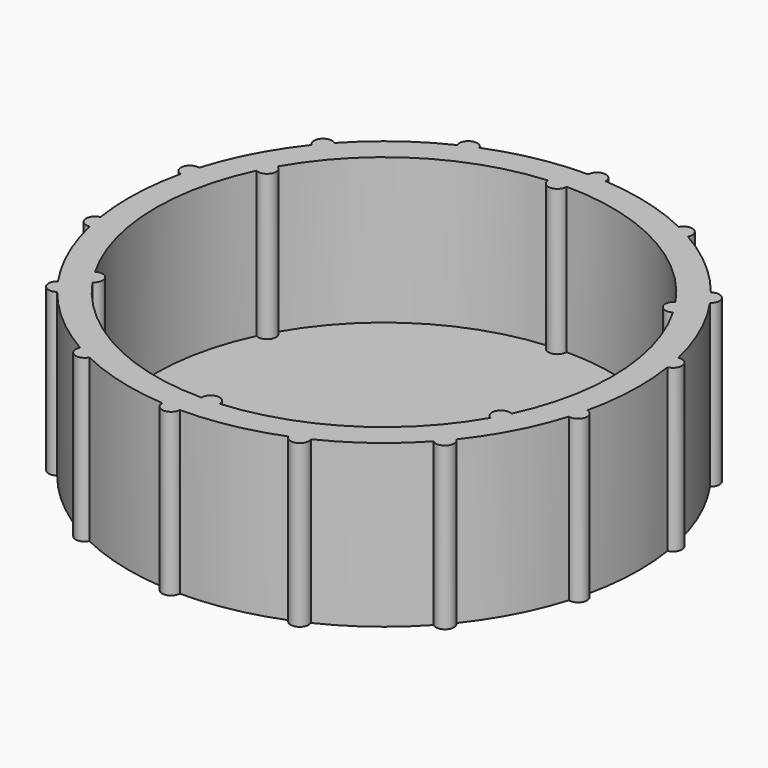
from build123d import *

# Parameters (mm, degrees)
F1_DEPTH = 0.9
F2_DEPTH = 9


with BuildPart() as f1:
    # F0 (on Top) → F1 (new body)
    with BuildSketch(Plane.XY):
        with BuildLine():
            ThreePointArc((0, 12.7), (-0.479927, 12.180703), (-0.999225, 12.66063))
            ThreePointArc((-0.999225, 12.66063), (-6.77809, 10.739995), (-10.998523, 6.35))
            ThreePointArc((-10.998523, 6.35), (-10.788762, 5.674722), (-11.464039, 5.464961))
            ThreePointArc((-11.464039, 5.464961), (-12.690154, -0.5), (-10.998523, -6.35))
            ThreePointArc((-10.998523, -6.35), (-10.308834, -6.505981), (-10.464815, -7.195669))
            ThreePointArc((-10.464815, -7.195669), (-5.912064, -11.239995), (0, -12.7))
            ThreePointArc((0, -12.7), (0.479927, -12.180703), (0.999225, -12.66063))
            ThreePointArc((0.999225, -12.66063), (6.77809, -10.739995), (10.998523, -6.35))
            ThreePointArc((10.998523, -6.35), (10.788762, -5.674722), (11.464039, -5.464961))
            ThreePointArc((11.464039, -5.464961), (12.690154, 0.5), (10.998523, 6.35))
            ThreePointArc((10.998523, 6.35), (10.308834, 6.505981), (10.464815, 7.195669))
            ThreePointArc((10.464815, 7.195669), (5.912064, 11.239995), (0, 12.7))
        make_face()
    extrude(amount=F1_DEPTH)

    # F0 (on Top) → F2 (join)
    with BuildSketch(Plane.XY):
        with BuildLine():
            ThreePointArc((0.99938, 14.164789), (0.517296, 14.682084), (0, 14.2))
            ThreePointArc((0, 14.2), (-2.670374, 13.946652), (-5.245461, 13.195648))
            ThreePointArc((-5.245461, 13.195648), (-5.90425, 13.452547), (-6.161149, 12.793758))
            ThreePointArc((-6.161149, 12.793758), (-8.457149, 11.406867), (-10.451375, 9.612948))
            ThreePointArc((-10.451375, 9.612948), (-11.156387, 9.558568), (-11.102007, 8.853555))
            ThreePointArc((-11.102007, 8.853555), (-12.568883, 6.607813), (-13.587265, 4.126285))
            ThreePointArc((-13.587265, 4.126285), (-14.198865, 3.771397), (-13.843976, 3.159797))
            ThreePointArc((-13.843976, 3.159797), (-14.191194, 0.5), (-14.032031, -2.177639))
            ThreePointArc((-14.032031, -2.177639), (-14.429083, -2.762745), (-13.843976, -3.159797))
            ThreePointArc((-13.843976, -3.159797), (-13.002766, -5.706844), (-11.697581, -8.050255))
            ThreePointArc((-11.697581, -8.050255), (-11.801444, -8.749692), (-11.102007, -8.853555))
            ThreePointArc((-11.102007, -8.853555), (-9.238981, -10.783378), (-7.046282, -12.328419))
            ThreePointArc((-7.046282, -12.328419), (-6.836385, -13.003655), (-6.161149, -12.793758))
            ThreePointArc((-6.161149, -12.793758), (-3.645302, -13.724131), (-0.99938, -14.164789))
            ThreePointArc((-0.99938, -14.164789), (-0.517296, -14.682084), (0, -14.2))
            ThreePointArc((0, -14.2), (2.670374, -13.946652), (5.245461, -13.195648))
            ThreePointArc((5.245461, -13.195648), (5.90425, -13.452547), (6.161149, -12.793758))
            ThreePointArc((6.161149, -12.793758), (8.457149, -11.406867), (10.451375, -9.612948))
            ThreePointArc((10.451375, -9.612948), (11.156387, -9.558568), (11.102007, -8.853555))
            ThreePointArc((11.102007, -8.853555), (12.568883, -6.607813), (13.587265, -4.126285))
            ThreePointArc((13.587265, -4.126285), (14.198865, -3.771397), (13.843976, -3.159797))
            ThreePointArc((13.843976, -3.159797), (14.191194, -0.5), (14.032031, 2.177639))
            ThreePointArc((14.032031, 2.177639), (14.429083, 2.762745), (13.843976, 3.159797))
            ThreePointArc((13.843976, 3.159797), (13.002766, 5.706844), (11.697581, 8.050255))
            ThreePointArc((11.697581, 8.050255), (11.801444, 8.749692), (11.102007, 8.853555))
            ThreePointArc((11.102007, 8.853555), (9.238981, 10.783378), (7.046282, 12.328419))
            ThreePointArc((7.046282, 12.328419), (6.836385, 13.003655), (6.161149, 12.793758))
            ThreePointArc((6.161149, 12.793758), (3.645302, 13.724131), (0.99938, 14.164789))
        make_face()
        with BuildLine():
            ThreePointArc((-10.998523, 6.35), (-6.77809, 10.739995), (-0.999225, 12.66063))
            ThreePointArc((-0.999225, 12.66063), (-0.479927, 12.180703), (0, 12.7))
            ThreePointArc((0, 12.7), (5.912064, 11.239995), (10.464815, 7.195669))
            ThreePointArc((10.464815, 7.195669), (10.308834, 6.505981), (10.998523, 6.35))
            ThreePointArc((10.998523, 6.35), (12.690154, 0.5), (11.464039, -5.464961))
            ThreePointArc((11.464039, -5.464961), (10.788762, -5.674722), (10.998523, -6.35))
            ThreePointArc((10.998523, -6.35), (6.77809, -10.739995), (0.999225, -12.66063))
            ThreePointArc((0.999225, -12.66063), (0.479927, -12.180703), (0, -12.7))
            ThreePointArc((0, -12.7), (-5.912064, -11.239995), (-10.464815, -7.195669))
            ThreePointArc((-10.464815, -7.195669), (-10.308834, -6.505981), (-10.998523, -6.35))
            ThreePointArc((-10.998523, -6.35), (-12.690154, -0.5), (-11.464039, 5.464961))
            ThreePointArc((-11.464039, 5.464961), (-10.788762, 5.674722), (-10.998523, 6.35))
        make_face(mode=Mode.SUBTRACT)
    extrude(amount=F2_DEPTH)


solid = f1.part
